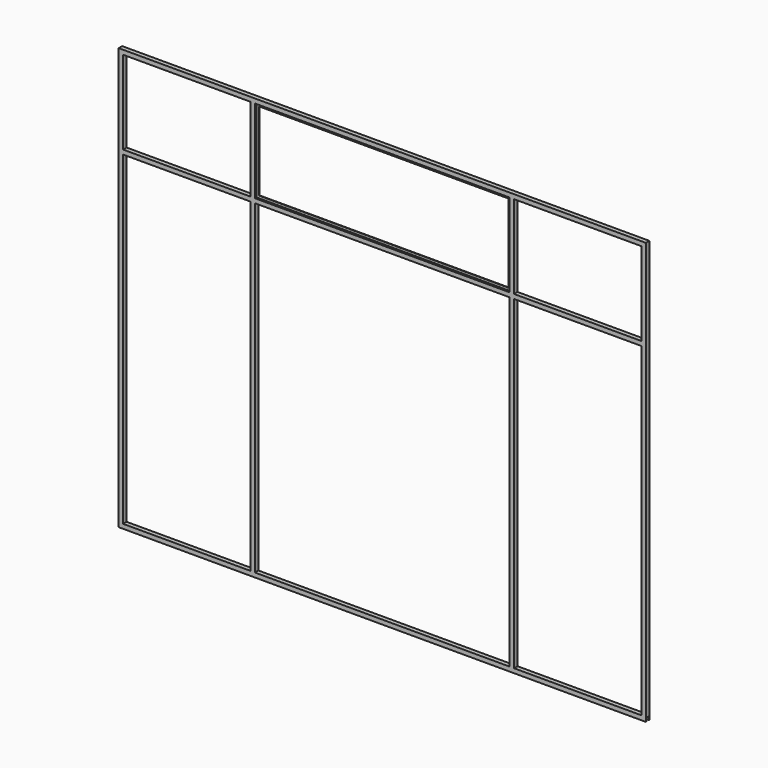
from build123d import *

# Parameters (mm, degrees)
F0_W     = 725
F0_H     = 1850
F0_W_2   = 1450
F0_H_2   = 475
F1_DEPTH = 12.5
F2_DEPTH = 12.5
F3_W     = 19
F3_H     = 20
F4_DEPTH = 3000
F5_W     = 4.999995
F5_H     = 486.715336
F5_W_2   = 1453.866918
F5_W_3   = 1418.866913
F5_H_2   = 446.715336
F6_DEPTH = 1.5


with BuildPart() as f1:
    # F0 (on Front) → F1 (new body, symmetric)
    with BuildSketch(Plane.XZ):
        Polygon((-1472.048871, 238.441594), (-1472.048871, -1661.558406), (1527.951129, -1661.558406), (1527.951129, 738.441594), (752.951129, 738.441594), (-697.048871, 738.441594), (-1472.048871, 738.441594), align=None)
        with Locations((-1084.548871, -711.558406)):
            Rectangle(F0_W, F0_H, mode=Mode.SUBTRACT)
        with Locations((27.951129, -711.558406)):
            Rectangle(F0_W_2, F0_H, mode=Mode.SUBTRACT)
        with Locations((1140.451129, -711.558406)):
            Rectangle(F0_W, F0_H, mode=Mode.SUBTRACT)
        with Locations((-1084.548871, 475.941594)):
            Rectangle(F0_W, F0_H_2, mode=Mode.SUBTRACT)
        with Locations((27.951129, 475.941594)):
            Rectangle(F0_W_2, F0_H_2, mode=Mode.SUBTRACT)
        with Locations((1140.451129, 475.941594)):
            Rectangle(F0_W, F0_H_2, mode=Mode.SUBTRACT)
    extrude(amount=F1_DEPTH, both=True)

    # F0 (on Front) → F2 (join, symmetric)
    with BuildSketch(Plane.XZ):
        Polygon((-1472.048871, 238.441594), (-1472.048871, -1661.558406), (1527.951129, -1661.558406), (1527.951129, 738.441594), (752.951129, 738.441594), (-697.048871, 738.441594), (-1472.048871, 738.441594), align=None)
        with Locations((-1084.548871, -711.558406)):
            Rectangle(F0_W, F0_H, mode=Mode.SUBTRACT)
        with Locations((27.951129, -711.558406)):
            Rectangle(F0_W_2, F0_H, mode=Mode.SUBTRACT)
        with Locations((1140.451129, -711.558406)):
            Rectangle(F0_W, F0_H, mode=Mode.SUBTRACT)
        with Locations((-1084.548871, 475.941594)):
            Rectangle(F0_W, F0_H_2, mode=Mode.SUBTRACT)
        with Locations((27.951129, 475.941594)):
            Rectangle(F0_W_2, F0_H_2, mode=Mode.SUBTRACT)
        with Locations((1140.451129, 475.941594)):
            Rectangle(F0_W, F0_H_2, mode=Mode.SUBTRACT)
    extrude(amount=F2_DEPTH, both=True)

    # F3 (on face) → F4 (cut, through all)
    with BuildSketch(Plane(origin=(-1472.048871, 0, 0), x_dir=(0, -1, 0), z_dir=(-1, 0, 0))):
        with Locations((0, -1651.558406)):
            Rectangle(F3_W, F3_H)
    extrude(amount=-F4_DEPTH, mode=Mode.SUBTRACT)

    # F5 (on Front) → F6 (join, symmetric)
    with BuildSketch(Plane.XZ):
        with Locations((-700.107395, 475.443611)):
            Rectangle(F5_W, F5_H)
        with Locations((29.326061, 475.443611)):
            Rectangle(F5_W_2, F5_H)
        with Locations((26.826063, 475.443611)):
            Rectangle(F5_W_3, F5_H_2, mode=Mode.SUBTRACT)
    extrude(amount=F6_DEPTH, both=True)


solid = f1.part
